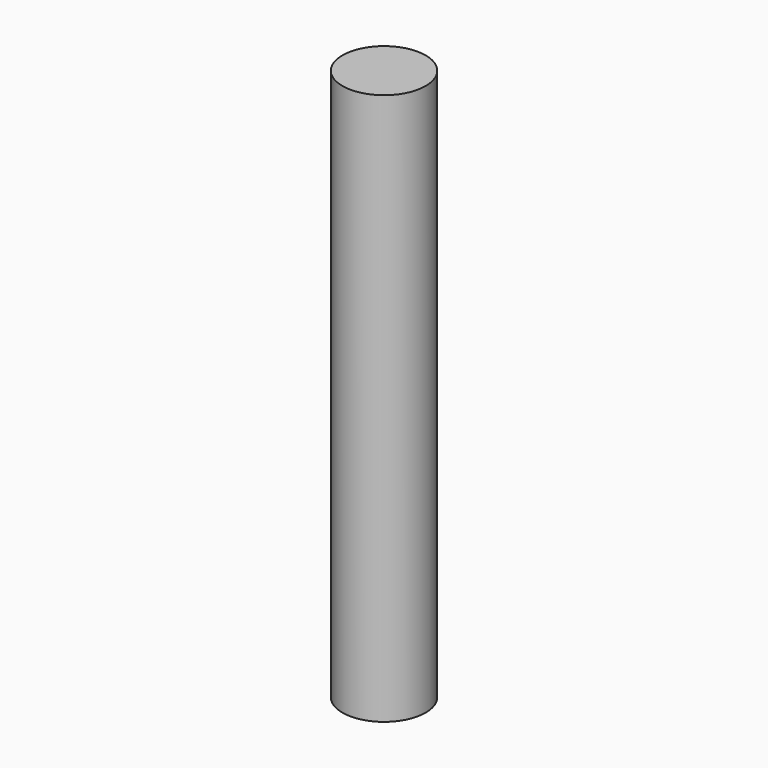
from build123d import *

# Parameters (mm, degrees)
CYLINDER_R     = 1.1303
CYLINDER_DEPTH = 15


with BuildPart() as part:
    # Cylinder → Cylinder (new body)
    with BuildSketch(Plane.XY.offset(-2.5)):
        Circle(CYLINDER_R)
    extrude(amount=CYLINDER_DEPTH)


solid = part.part
